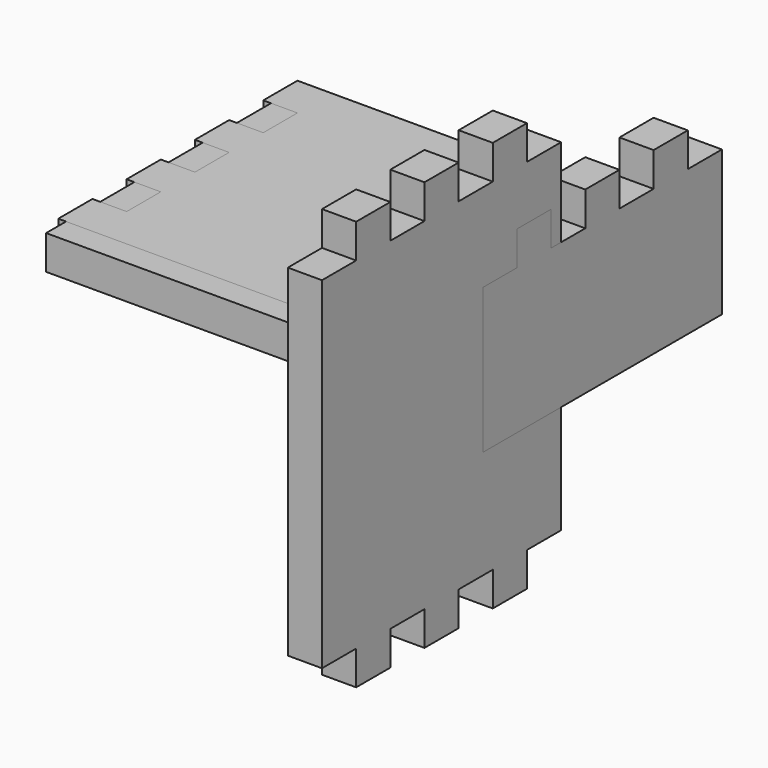
from build123d import *

# Parameters (mm, degrees)
F0_W      = 480
F0_H      = 350
F1_DEPTH  = 40
F2_W      = 350
F2_H      = 480
F3_DEPTH  = 40
F4_W      = 480
F4_H      = 350
F5_DEPTH  = 40
F6_W      = 350
F6_H      = 210
F7_DEPTH  = 40
F8_W      = 85.0309615808
F8_H      = 50
F8_W_2    = 86.1803859224
F8_W_3    = 116.6401538305
F9_DEPTH  = 50
F10_W     = 74.6454365466
F10_H     = 97.6743716581
F10_W_2   = 50
F10_H_2   = 110.9500733709
F10_W_3   = 67.4985460367
F10_H_3   = 80
F10_W_4   = 63.5280413126
F10_H_4   = 101.6448592455
F10_H_5   = 128.1634595595
F10_H_6   = 114.6637674888
F10_W_5   = 84.9687599682
F10_H_7   = 125.7811841437
F11_DEPTH = 100
F12_W     = 78.3577047333
F12_H     = 50
F12_W_2   = 55.6823987415
F12_W_3   = 70.6201573807
F12_W_4   = 80.1742867282
F12_W_5   = 71.0833863297
F12_W_6   = 78.6591355512
F13_DEPTH = 50
F14_W     = 74.3059250168
F14_H     = 90.372060785
F14_W_2   = 50
F14_H_2   = 64.995960281
F14_H_3   = 67.6736311095
F14_W_3   = 72.9670965273
F14_H_4   = 79.0538373879
F15_DEPTH = 50


with BuildPart() as f1:
    # F0 (on Top) → F1 (new body)
    with BuildSketch(Plane.XY):
        with Locations((-228.8810501248, 137.1673375368)):
            Rectangle(F0_W, F0_H)
    extrude(amount=F1_DEPTH)

    # F8 (on face) → F9 (cut)
    with BuildSketch(Plane.XY.offset(40)):
        with Locations((13.6344306656, 37.1673375368)):
            Rectangle(F8_W, F8_H)
        with Locations((14.2091428364, 137.1673375368)):
            Rectangle(F8_W_2, F8_H)
        with Locations((29.4390267905, 237.1673375368)):
            Rectangle(F8_W_3, F8_H)
    extrude(amount=-F9_DEPTH, mode=Mode.SUBTRACT)


with BuildPart() as f3:
    # F2 (on Right) → F3 (new body)
    with BuildSketch(Plane.YZ):
        with Locations((-95.1133482158, 51.2756378061)):
            Rectangle(F2_W, F2_H)
    extrude(amount=F3_DEPTH)

    # F10 (on face) → F11 (cut)
    with BuildSketch(Plane(origin=(0, 0, 0), x_dir=(0, -1, 0), z_dir=(-1, 0, 0))):
        with Locations((-67.2093700575, 300.1128236351)):
            Rectangle(F10_W, F10_H)
        with Locations((45.1133482158, 306.7506744915)):
            Rectangle(F10_W_2, F10_H_2)
        with Locations((145.1133482158, 306.7506744915)):
            Rectangle(F10_W_2, F10_H_2)
        with Locations((253.8626212342, 291.2756378061)):
            Rectangle(F10_W_3, F10_H_3)
        with Locations((-61.6506724405, -199.5467918167)):
            Rectangle(F10_W_4, F10_H_4)
        with Locations((45.1133482158, -212.8060919737)):
            Rectangle(F10_W_2, F10_H_5)
        with Locations((145.1133482158, -206.0562459384)):
            Rectangle(F10_W_2, F10_H_6)
        with Locations((262.5977281999, -211.6149542658)):
            Rectangle(F10_W_5, F10_H_7)
    extrude(amount=-F11_DEPTH, mode=Mode.SUBTRACT)


with BuildPart() as f5:
    # F4 (on Top) → F5 (new body)
    with BuildSketch(Plane.XY):
        with Locations((-237.9536277056, 166.3810482249)):
            Rectangle(F4_W, F4_H)
    extrude(amount=F5_DEPTH)

    # F12 (on face) → F13 (cut)
    with BuildSketch(Plane.XY.offset(40)):
        with Locations((-477.1324800722, 266.3810482249)):
            Rectangle(F12_W, F12_H)
        with Locations((-465.7948270763, 166.3810482249)):
            Rectangle(F12_W_2, F12_H)
        with Locations((-473.2637063959, 66.3810482249)):
            Rectangle(F12_W_3, F12_H)
        with Locations((2.1335156585, 266.3810482249)):
            Rectangle(F12_W_4, F12_H)
        with Locations((-2.4119345407, 166.3810482249)):
            Rectangle(F12_W_5, F12_H)
        with Locations((1.37594007, 66.3810482249)):
            Rectangle(F12_W_6, F12_H)
    extrude(amount=-F13_DEPTH, mode=Mode.SUBTRACT)


with BuildPart() as f7:
    # F6 (on Right) → F7 (new body)
    with BuildSketch(Plane.YZ):
        with Locations((140.2520157397, 83.1350810081)):
            Rectangle(F6_W, F6_H)
    extrude(amount=F7_DEPTH)

    # F14 (on face) → F15 (cut)
    with BuildSketch(Plane(origin=(0, 0, 0), x_dir=(0, -1, 0), z_dir=(-1, 0, 0))):
        with Locations((-302.4049782481, 193.3211114006)):
            Rectangle(F14_W, F14_H)
        with Locations((-190.2520157397, 180.6330611486)):
            Rectangle(F14_W_2, F14_H_2)
        with Locations((-90.2520157397, 181.9718965628)):
            Rectangle(F14_W_2, F14_H_3)
        with Locations((21.231532524, 187.661999702)):
            Rectangle(F14_W_3, F14_H_4)
    extrude(amount=-F15_DEPTH, mode=Mode.SUBTRACT)


solid = Compound([f1.part, f3.part, f5.part, f7.part])
